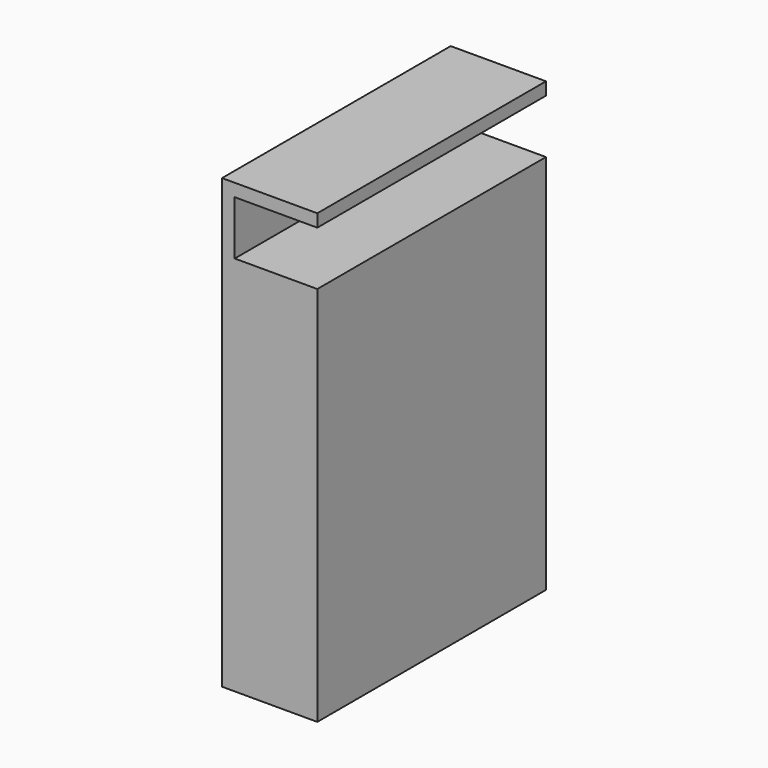
from build123d import *

# Parameters (mm, degrees)
SKETCH028_W  = 13
SKETCH028_H  = 45
PAD026_DEPTH = 8.5
SKETCH030_W  = 15
SKETCH030_H  = 45
PAD028_DEPTH = 70.5


with BuildPart() as body029:
    # Sketch028 → Pad026 (new body)
    with BuildSketch(Plane.XY):
        with Locations((-28.5, -16.5)):
            Rectangle(SKETCH028_W, SKETCH028_H)
    extrude(amount=PAD026_DEPTH)


with BuildPart() as body029_1:
    # Body029 placement: moved
    add(body029.part.moved(Location((-1, -21.5, 2))))


with BuildPart() as cut030:
    # Sketch030 → Pad028 (new body)
    with BuildSketch(Plane.XY):
        with Locations((-27.5, -16.5)):
            Rectangle(SKETCH030_W, SKETCH030_H)
    extrude(amount=PAD028_DEPTH)


with BuildPart() as cut030_1:
    # Body031 placement: moved
    add(cut030.part.moved(Location((-3, -21.5, -58))))

    # Cut030: cut Body029
    add(body029_1.part, mode=Mode.SUBTRACT)


solid = cut030_1.part
